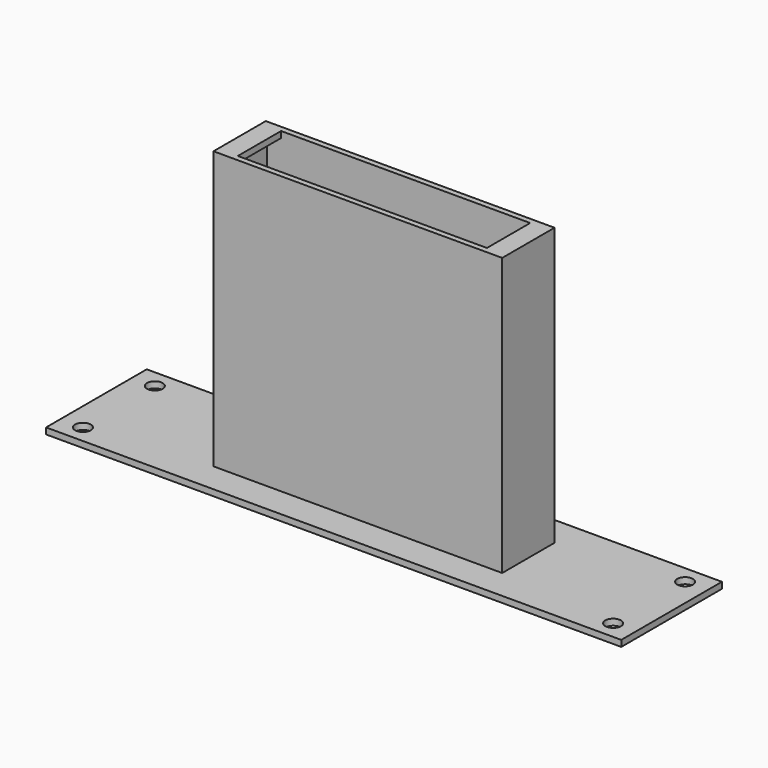
from build123d import *

# Parameters (mm, degrees)
SKETCH_W      = 203.2
SKETCH_H      = 44.45
SKETCH_R      = 2.775
SKETCH_W_2    = 98
SKETCH_H_2    = 19.1
PAD_DEPTH     = 2.2
SKETCH001_W   = 102
SKETCH001_H   = 23.1
SKETCH001_W_2 = 98
SKETCH001_H_2 = 19.1
PAD001_DEPTH  = 95.8
SKETCH002_W   = 102
SKETCH002_H   = 23.1
SKETCH002_W_2 = 88
SKETCH002_H_2 = 19.1
PAD002_DEPTH  = 2.2


with BuildPart() as part:
    # Sketch → Pad (new body)
    with BuildSketch(Plane.XY):
        Rectangle(SKETCH_W, SKETCH_H)
        with Locations((-93.6625, 15.875)):
            Circle(SKETCH_R, mode=Mode.SUBTRACT)
        with Locations((-93.6625, -15.875)):
            Circle(SKETCH_R, mode=Mode.SUBTRACT)
        with Locations((93.6625, 15.875)):
            Circle(SKETCH_R, mode=Mode.SUBTRACT)
        with Locations((93.6625, -15.875)):
            Circle(SKETCH_R, mode=Mode.SUBTRACT)
        Rectangle(SKETCH_W_2, SKETCH_H_2, mode=Mode.SUBTRACT)
    extrude(amount=PAD_DEPTH)

    # Sketch001 (on Face14 of Pad) → Pad001 (join)
    with BuildSketch(Plane.XY.offset(2.2)):
        Rectangle(SKETCH001_W, SKETCH001_H)
        Rectangle(SKETCH001_W_2, SKETCH001_H_2, mode=Mode.SUBTRACT)
    extrude(amount=PAD001_DEPTH)

    # Sketch002 (on Face23 of Pad001) → Pad002 (join)
    with BuildSketch(Plane.XY.offset(98)):
        Rectangle(SKETCH002_W, SKETCH002_H)
        Rectangle(SKETCH002_W_2, SKETCH002_H_2, mode=Mode.SUBTRACT)
    extrude(amount=PAD002_DEPTH)


solid = part.part
